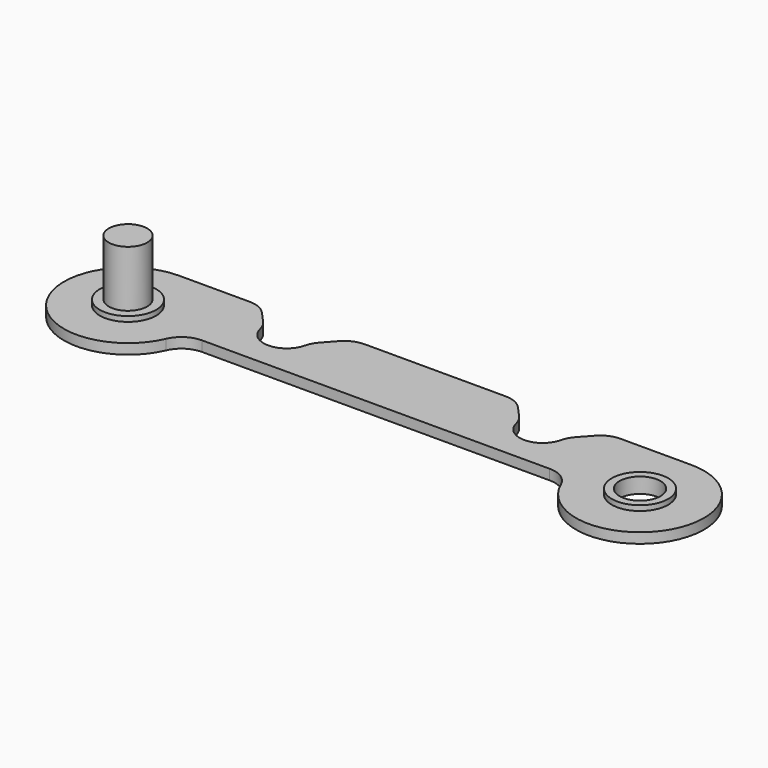
from build123d import *

# Parameters (mm, degrees)
F0_R     = 5.5
F0_R_2   = 3.75
F0_R_3   = 4
F1_DEPTH = 2
F2_DEPTH = 12
F3_DEPTH = 1
F4_ANGLE = 90


with BuildPart() as f1:
    # F0 (on Front) → F1 (new body)
    with BuildSketch(Plane.XZ):
        with BuildLine():
            ThreePointArc((20.6234359139, 1.0467505913), (25, 4.5), (29.3765640861, 1.0467505913))
            ThreePointArc((29.3765640861, 1.0467505913), (29.8140239679, -0.117408547), (30.5252627854, -1.1375933304))
            Line((30.5252627854, -1.1375933304), (32.5105844978, -3.3404322227))
            ThreePointArc((32.5105844978, -3.3404322227), (34.1921257049, -4.5612374621), (36.2247347829, -4.9930320884))
            Line((36.2247347829, -4.9930320884), (50, -4.9930320884))
            ThreePointArc((50, -4.9930320884), (60.4567630389, 14.3557712193), (38.5413898737, 12.5019908319))
            ThreePointArc((38.5413898737, 12.5019908319), (36.6974671463, 10.3172947844), (33.9579458232, 9.5))
            Line((33.9579458232, 9.5), (-33.9579458232, 9.5))
            ThreePointArc((-33.9579458232, 9.5), (-36.6974671463, 10.3172947844), (-38.5413898737, 12.5019908319))
            ThreePointArc((-38.5413898737, 12.5019908319), (-60.4567630389, 14.3557712193), (-50, -4.9930320884))
            Line((-50, -4.9930320884), (-36.224734783, -4.9930320884))
            ThreePointArc((-36.224734783, -4.9930320884), (-34.1921257049, -4.5612374621), (-32.5105844978, -3.3404322227))
            Line((-32.5105844978, -3.3404322227), (-30.5252627854, -1.1375933304))
            ThreePointArc((-30.5252627854, -1.1375933304), (-29.8140239679, -0.117408547), (-29.3765640861, 1.0467505913))
            ThreePointArc((-29.3765640861, 1.0467505913), (-25, 4.5), (-20.6234359139, 1.0467505913))
            ThreePointArc((-20.6234359139, 1.0467505913), (-20.1859760321, -0.117408547), (-19.4747372146, -1.1375933304))
            Line((-19.4747372146, -1.1375933304), (-17.4894155022, -3.3404322227))
            ThreePointArc((-17.4894155022, -3.3404322227), (-15.8078742951, -4.5612374621), (-13.775265217, -4.9930320884))
            Line((-13.775265217, -4.9930320884), (13.775265217, -4.9930320884))
            ThreePointArc((13.775265217, -4.9930320884), (15.8078742951, -4.5612374621), (17.4894155022, -3.3404322227))
            Line((17.4894155022, -3.3404322227), (19.4747372146, -1.1375933304))
            ThreePointArc((19.4747372146, -1.1375933304), (20.1859760321, -0.117408547), (20.6234359139, 1.0467505913))
        make_face()
        with Locations((-50, 7.5069679116)):
            Circle(F0_R, mode=Mode.SUBTRACT)
        with Locations((50, 7.5069679116)):
            Circle(F0_R, mode=Mode.SUBTRACT)
        with Locations((-50, 7.5069679116)):
            Circle(F0_R)
        with Locations((-50, 7.5069679116)):
            Circle(F0_R_2, mode=Mode.SUBTRACT)
        with Locations((50, 7.5069679116)):
            Circle(F0_R)
        with Locations((50, 7.5069679116)):
            Circle(F0_R_3, mode=Mode.SUBTRACT)
        with Locations((-50, 7.5069679116)):
            Circle(F0_R_2)
    extrude(amount=F1_DEPTH)

    # F0 (on Front) → F2 (join)
    with BuildSketch(Plane.XZ):
        with Locations((-50, 7.5069679116)):
            Circle(F0_R_2)
    extrude(amount=-F2_DEPTH)

    # F0 (on Front) → F3 (join)
    with BuildSketch(Plane.XZ):
        with Locations((-50, 7.5069679116)):
            Circle(F0_R)
        with Locations((-50, 7.5069679116)):
            Circle(F0_R_2, mode=Mode.SUBTRACT)
        with Locations((50, 7.5069679116)):
            Circle(F0_R)
        with Locations((50, 7.5069679116)):
            Circle(F0_R_3, mode=Mode.SUBTRACT)
    extrude(amount=-F3_DEPTH)


with BuildPart() as f1_1:
    # F4: moved
    add(f1.part.rotate(Axis((0, 0, 9.5), (1, 0, 0)), F4_ANGLE))


solid = f1_1.part
